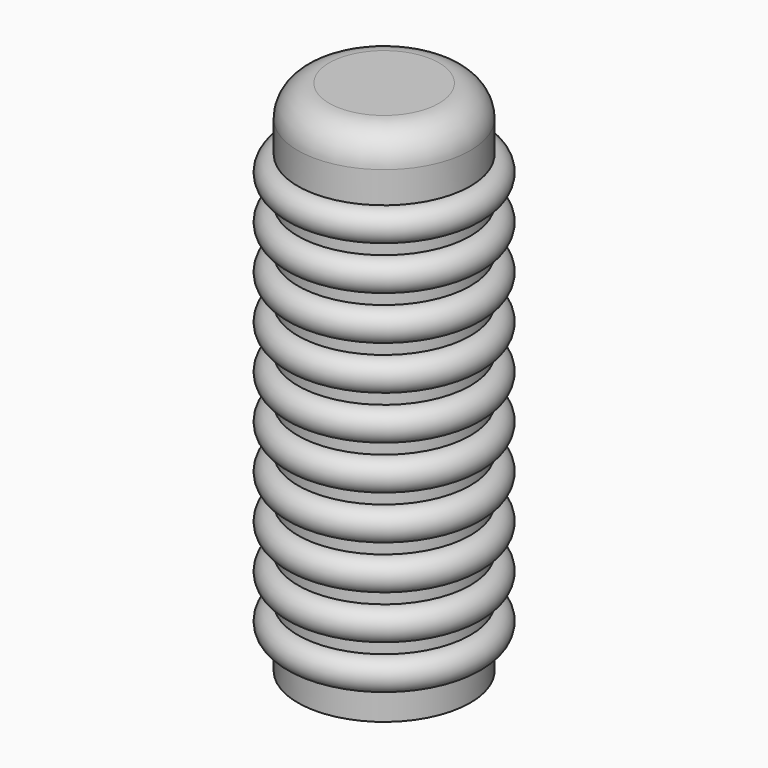
from build123d import *

# Parameters (mm, degrees)
F2_SIZE = 1


with BuildPart() as f1:
    # F0 (on Front) → F1 (revolve)
    with BuildSketch(Plane.XZ):
        with BuildLine():
            Line((0, 82.5), (0, 80))
            Line((0, 80), (11.25, 80))
            Line((11.25, 80), (11.25, 0))
            Line((11.25, 0), (13.75, 0))
            Line((13.75, 0), (13.75, 4.5))
            Line((13.75, 4.5), (13.75, 9.5))
            Line((13.75, 9.5), (13.75, 11.5))
            Line((13.75, 11.5), (13.75, 16.5))
            Line((13.75, 16.5), (13.75, 18.5))
            Line((13.75, 18.5), (13.75, 23.5))
            Line((13.75, 23.5), (13.75, 25.5))
            Line((13.75, 25.5), (13.75, 30.5))
            Line((13.75, 30.5), (13.75, 32.5))
            Line((13.75, 32.5), (13.75, 37.5))
            Line((13.75, 37.5), (13.75, 39.5))
            Line((13.75, 39.5), (13.75, 44.5))
            Line((13.75, 44.5), (13.75, 46.5))
            Line((13.75, 46.5), (13.75, 51.5))
            Line((13.75, 51.5), (13.75, 53.5))
            Line((13.75, 53.5), (13.75, 58.5))
            Line((13.75, 58.5), (13.75, 60.5))
            Line((13.75, 60.5), (13.75, 65.5))
            Line((13.75, 65.5), (13.75, 67.5))
            Line((13.75, 67.5), (13.75, 72.5))
            Line((13.75, 72.5), (13.75, 77.5))
            ThreePointArc((13.75, 77.5), (12.285534, 81.035534), (8.75, 82.5))
            Line((8.75, 82.5), (0, 82.5))
        make_face()
        with BuildLine():
            ThreePointArc((13.75, 67.5), (16.25, 70), (13.75, 72.5))
            Line((13.75, 72.5), (13.75, 67.5))
        make_face()
        with BuildLine():
            Line((13.75, 9.5), (13.75, 4.5))
            ThreePointArc((13.75, 4.5), (16.25, 7), (13.75, 9.5))
        make_face()
        with BuildLine():
            ThreePointArc((13.75, 60.5), (16.25, 63), (13.75, 65.5))
            Line((13.75, 65.5), (13.75, 60.5))
        make_face()
        with BuildLine():
            Line((13.75, 16.5), (13.75, 11.5))
            ThreePointArc((13.75, 11.5), (16.25, 14), (13.75, 16.5))
        make_face()
        with BuildLine():
            ThreePointArc((13.75, 53.5), (16.25, 56), (13.75, 58.5))
            Line((13.75, 58.5), (13.75, 53.5))
        make_face()
        with BuildLine():
            Line((13.75, 23.5), (13.75, 18.5))
            ThreePointArc((13.75, 18.5), (16.25, 21), (13.75, 23.5))
        make_face()
        with BuildLine():
            ThreePointArc((13.75, 46.5), (16.25, 49), (13.75, 51.5))
            Line((13.75, 51.5), (13.75, 46.5))
        make_face()
        with BuildLine():
            Line((13.75, 30.5), (13.75, 25.5))
            ThreePointArc((13.75, 25.5), (16.25, 28), (13.75, 30.5))
        make_face()
        with BuildLine():
            ThreePointArc((13.75, 39.5), (16.25, 42), (13.75, 44.5))
            Line((13.75, 44.5), (13.75, 39.5))
        make_face()
        with BuildLine():
            Line((13.75, 37.5), (13.75, 32.5))
            ThreePointArc((13.75, 32.5), (16.25, 35), (13.75, 37.5))
        make_face()
    revolve(axis=Axis((0, 0, 41.25), (0, 0, 1)))

    # F2
    f2_edges = [f1.edges().sort_by_distance(p)[0] for p in [
        (-11.25, 0, 0),
    ]]
    chamfer(f2_edges, length=F2_SIZE)


solid = f1.part
